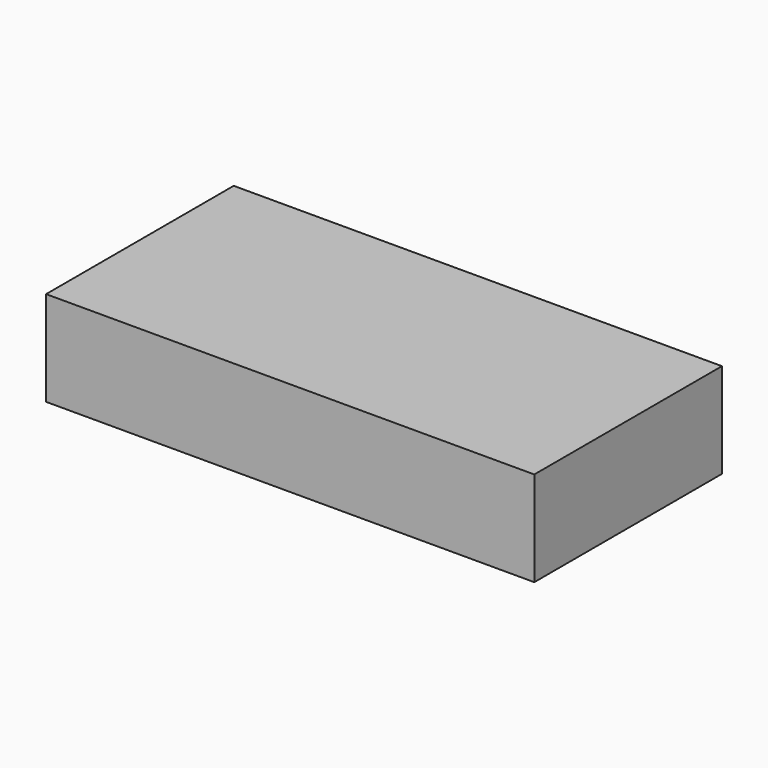
from build123d import *

# Parameters (mm, degrees)
F0_W     = 79.9421519041
F0_H     = 62.8107488155
F1_DEPTH = 25.4
F4_W     = 62.8107488155
F4_H     = 25.4
F5_DEPTH = 25.4
F2_W     = 62.8107488155
F2_H     = 25.4
F6_DEPTH = 25.4


with BuildPart() as f1:
    # F0 (on Top) → F1 (new body)
    with BuildSketch(Plane.XY):
        with Locations((8.9811533689, -4.9324259162)):
            Rectangle(F0_W, F0_H)
    extrude(amount=F1_DEPTH)



with BuildPart() as f5:
    # F4 (on offset) → F5 (new body)
    with BuildSketch(Plane.YZ.offset(74.352229321)):
        with Locations((-4.9324259162, 12.7)):
            Rectangle(F4_W, F4_H)
    extrude(amount=F5_DEPTH)


with BuildPart() as f1_1:
    add(f1.part)

    add(f5.part)  # F6 merges F5
    # F2 (on face) → F6 (join, through all)
    with BuildSketch(Plane.YZ.offset(48.952229321)):
        with Locations((-4.9324259162, 12.7)):
            Rectangle(F2_W, F2_H)
    extrude(amount=F6_DEPTH)


solid = f1_1.part
